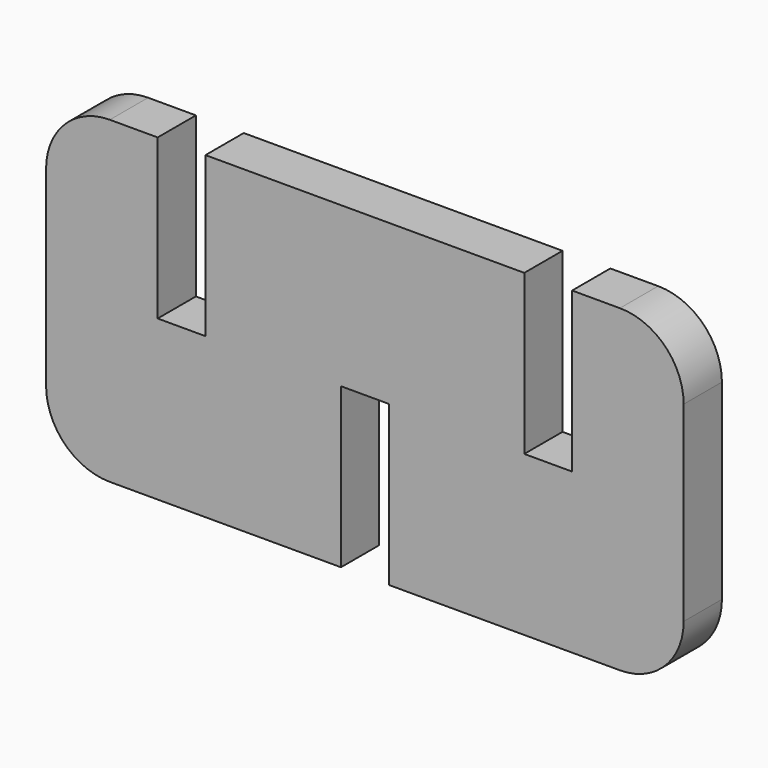
from build123d import *

# Parameters (mm, degrees)
F1_DEPTH = 3


with BuildPart() as f1:
    # F0 (on Front) → F1 (new body)
    with BuildSketch(Plane.XZ):
        with BuildLine():
            Line((-14.5, 31.302889), (-17.5, 31.302889))
            ThreePointArc((-17.5, 31.302889), (-20.328427, 30.131316), (-21.5, 27.302889))
            Line((-21.5, 27.302889), (-21.5, 15.302889))
            ThreePointArc((-21.5, 15.302889), (-20.328427, 12.474462), (-17.5, 11.302889))
            Line((-17.5, 11.302889), (-3, 11.302889))
            Line((-3, 11.302889), (-3, 21.302889))
            Line((-3, 21.302889), (0, 21.302889))
            Line((0, 21.302889), (0, 11.302889))
            Line((0, 11.302889), (14.5, 11.302889))
            ThreePointArc((14.5, 11.302889), (17.328427, 12.474462), (18.5, 15.302889))
            Line((18.5, 15.302889), (18.5, 27.302889))
            ThreePointArc((18.5, 27.302889), (17.328427, 30.131316), (14.5, 31.302889))
            Line((14.5, 31.302889), (11.5, 31.302889))
            Line((11.5, 31.302889), (11.5, 21.302889))
            Line((11.5, 21.302889), (8.5, 21.302889))
            Line((8.5, 21.302889), (8.5, 31.302889))
            Line((8.5, 31.302889), (-11.5, 31.302889))
            Line((-11.5, 31.302889), (-11.5, 21.302889))
            Line((-11.5, 21.302889), (-14.5, 21.302889))
            Line((-14.5, 21.302889), (-14.5, 31.302889))
        make_face()
    extrude(amount=F1_DEPTH)


solid = f1.part
